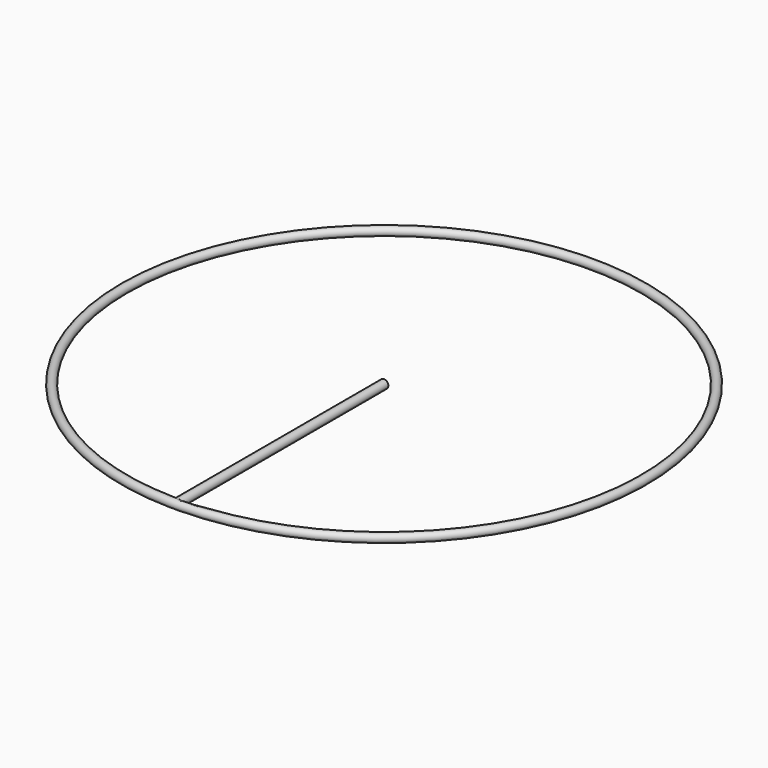
from build123d import *

# Parameters (mm, degrees)
F1_R     = 1.5
F3_R     = 1.5
F4_DEPTH = 90


with BuildPart() as f2:
    # F1 (on Front) → F2 (revolve)
    with BuildSketch(Plane.XZ):
        with Locations((-90, 0)):
            Circle(F1_R)
    revolve(axis=Axis((0, 0, 0), (0, 0, 1)))

    # F3 (on Front) → F4 (join)
    with BuildSketch(Plane.XZ):
        Circle(F3_R)
    extrude(amount=F4_DEPTH)


solid = f2.part
